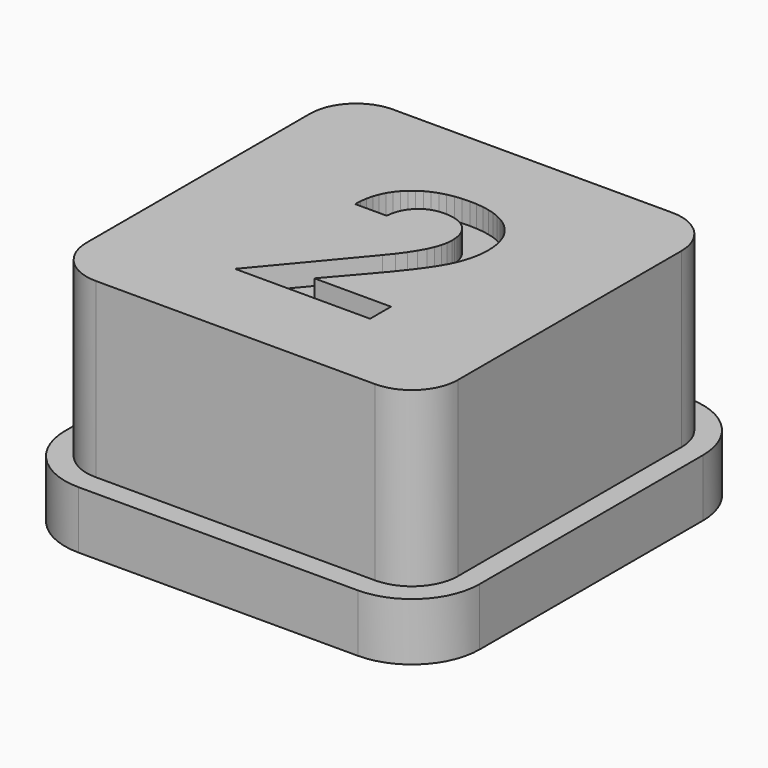
from build123d import *

# Parameters (mm, degrees)
F1_DEPTH = 2
F2_DEPTH = 8
F3_DEPTH = 7.25


with BuildPart() as f1:
    # F0 (on Top) → F1 (new body)
    with BuildSketch(Plane.XY):
        with BuildLine():
            Line((4.85, 7.2), (-4.85, 7.2))
            ThreePointArc((-4.85, 7.2), (-6.511701, 6.511701), (-7.2, 4.85))
            Line((-7.2, 4.85), (-7.2, -4.85))
            ThreePointArc((-7.2, -4.85), (-6.511701, -6.511701), (-4.85, -7.2))
            Line((-4.85, -7.2), (4.85, -7.2))
            ThreePointArc((4.85, -7.2), (6.511701, -6.511701), (7.2, -4.85))
            Line((7.2, -4.85), (7.2, 4.85))
            ThreePointArc((7.2, 4.85), (6.511701, 6.511701), (4.85, 7.2))
        make_face()
        with BuildLine():
            ThreePointArc((6.45, -4.85), (5.981371, -5.981371), (4.85, -6.45))
            Line((4.85, -6.45), (-4.85, -6.45))
            ThreePointArc((-4.85, -6.45), (-5.981371, -5.981371), (-6.45, -4.85))
            Line((-6.45, -4.85), (-6.45, 4.85))
            ThreePointArc((-6.45, 4.85), (-5.981371, 5.981371), (-4.85, 6.45))
            Line((-4.85, 6.45), (4.85, 6.45))
            ThreePointArc((4.85, 6.45), (5.981371, 5.981371), (6.45, 4.85))
            Line((6.45, 4.85), (6.45, -4.85))
        make_face(mode=Mode.SUBTRACT)
    extrude(amount=F1_DEPTH)

    # F0 (on Top) → F2 (join)
    with BuildSketch(Plane.XY):
        with BuildLine():
            Line((-4.85, -6.45), (4.85, -6.45))
            ThreePointArc((4.85, -6.45), (5.981371, -5.981371), (6.45, -4.85))
            Line((6.45, -4.85), (6.45, 4.85))
            ThreePointArc((6.45, 4.85), (5.981371, 5.981371), (4.85, 6.45))
            Line((4.85, 6.45), (-4.85, 6.45))
            ThreePointArc((-4.85, 6.45), (-5.981371, 5.981371), (-6.45, 4.85))
            Line((-6.45, 4.85), (-6.45, -4.85))
            ThreePointArc((-6.45, -4.85), (-5.981371, -5.981371), (-4.85, -6.45))
        make_face()
        Polygon((-0.317964, -2.627391), (2.345287, -2.627391), (2.345287, -3.535861), (-2.345287, -3.535861), (0.27015, -0.40403), (0.497567, -0.118938), (0.692111, 0.148224), (0.853782, 0.397456), (0.982582, 0.628757), (1.0809, 0.846013), (1.151127, 1.053108), (1.193263, 1.250043), (1.207309, 1.436817), (1.20249, 1.563637), (1.188034, 1.683508), (1.16394, 1.796432), (1.130208, 1.902408), (1.086839, 2.001435), (1.033833, 2.093515), (0.971189, 2.178647), (0.898907, 2.256831), (0.818258, 2.326871), (0.730511, 2.387573), (0.635667, 2.438935), (0.533726, 2.48096), (0.424687, 2.513645), (0.308551, 2.536992), (0.185317, 2.551), (0.054986, 2.555669), (-0.061934, 2.551), (-0.173625, 2.536992), (-0.280087, 2.513645), (-0.381318, 2.48096), (-0.47732, 2.438935), (-0.568093, 2.387573), (-0.653635, 2.326871), (-0.733948, 2.256831), (-0.807388, 2.17917), (-0.87231, 2.095607), (-0.928716, 2.006142), (-0.976605, 1.910775), (-1.015977, 1.809506), (-1.046832, 1.702335), (-1.069171, 1.589262), (-1.082992, 1.470287), (-2.177937, 1.470287), (-2.168075, 1.699832), (-2.13849, 1.917499), (-2.089182, 2.123287), (-2.02015, 2.317196), (-1.931395, 2.499226), (-1.822917, 2.669378), (-1.694715, 2.82765), (-1.54679, 2.974044), (-1.382204, 3.10572), (-1.204022, 3.219839), (-1.012242, 3.316401), (-0.806865, 3.395406), (-0.587891, 3.456855), (-0.355319, 3.500747), (-0.109151, 3.527082), (0.150615, 3.535861), (0.397344, 3.527717), (0.630699, 3.503287), (0.850682, 3.46257), (1.057292, 3.405567), (1.250528, 3.332277), (1.430392, 3.2427), (1.596882, 3.136836), (1.75, 3.014686), (1.887279, 2.87849), (2.006254, 2.73049), (2.106926, 2.570686), (2.189293, 2.399078), (2.253357, 2.215666), (2.299116, 2.020449), (2.326572, 1.813429), (2.335724, 1.594604), (2.330457, 1.434239), (2.314656, 1.273502), (2.288321, 1.11239), (2.251452, 0.950905), (2.204048, 0.789046), (2.146111, 0.626814), (2.077639, 0.464209), (1.998634, 0.30123), (1.902595, 0.128837), (1.783022, -0.062009), (1.639915, -0.271308), (1.473275, -0.499061), (1.069395, -1.009926), (0.57138, -1.594604), align=None, mode=Mode.SUBTRACT)
    extrude(amount=F2_DEPTH)

    # F0 (on Top) → F3 (join)
    with BuildSketch(Plane.XY):
        Polygon((2.345287, -3.535861), (2.345287, -2.627391), (-0.317964, -2.627391), (0.57138, -1.594604), (1.069395, -1.009926), (1.473275, -0.499061), (1.639915, -0.271308), (1.783022, -0.062009), (1.902595, 0.128837), (1.998634, 0.30123), (2.077639, 0.464209), (2.146111, 0.626814), (2.204048, 0.789046), (2.251452, 0.950905), (2.288321, 1.11239), (2.314656, 1.273502), (2.330457, 1.434239), (2.335724, 1.594604), (2.326572, 1.813429), (2.299116, 2.020449), (2.253357, 2.215666), (2.189293, 2.399078), (2.106926, 2.570686), (2.006254, 2.73049), (1.887279, 2.87849), (1.75, 3.014686), (1.596882, 3.136836), (1.430392, 3.2427), (1.250528, 3.332277), (1.057292, 3.405567), (0.850682, 3.46257), (0.630699, 3.503287), (0.397344, 3.527717), (0.150615, 3.535861), (-0.109151, 3.527082), (-0.355319, 3.500747), (-0.587891, 3.456855), (-0.806865, 3.395406), (-1.012242, 3.316401), (-1.204022, 3.219839), (-1.382204, 3.10572), (-1.54679, 2.974044), (-1.694715, 2.82765), (-1.822917, 2.669378), (-1.931395, 2.499226), (-2.02015, 2.317196), (-2.089182, 2.123287), (-2.13849, 1.917499), (-2.168075, 1.699832), (-2.177937, 1.470287), (-1.082992, 1.470287), (-1.069171, 1.589262), (-1.046832, 1.702335), (-1.015977, 1.809506), (-0.976605, 1.910775), (-0.928716, 2.006142), (-0.87231, 2.095607), (-0.807388, 2.17917), (-0.733948, 2.256831), (-0.653635, 2.326871), (-0.568093, 2.387573), (-0.47732, 2.438935), (-0.381318, 2.48096), (-0.280087, 2.513645), (-0.173625, 2.536992), (-0.061934, 2.551), (0.054986, 2.555669), (0.185317, 2.551), (0.308551, 2.536992), (0.424687, 2.513645), (0.533726, 2.48096), (0.635667, 2.438935), (0.730511, 2.387573), (0.818258, 2.326871), (0.898907, 2.256831), (0.971189, 2.178647), (1.033833, 2.093515), (1.086839, 2.001435), (1.130208, 1.902408), (1.16394, 1.796432), (1.188034, 1.683508), (1.20249, 1.563637), (1.207309, 1.436817), (1.193263, 1.250043), (1.151127, 1.053108), (1.0809, 0.846013), (0.982582, 0.628757), (0.853782, 0.397456), (0.692111, 0.148224), (0.497567, -0.118938), (0.27015, -0.40403), (-2.345287, -3.535861), align=None)
    extrude(amount=F3_DEPTH)


solid = f1.part
